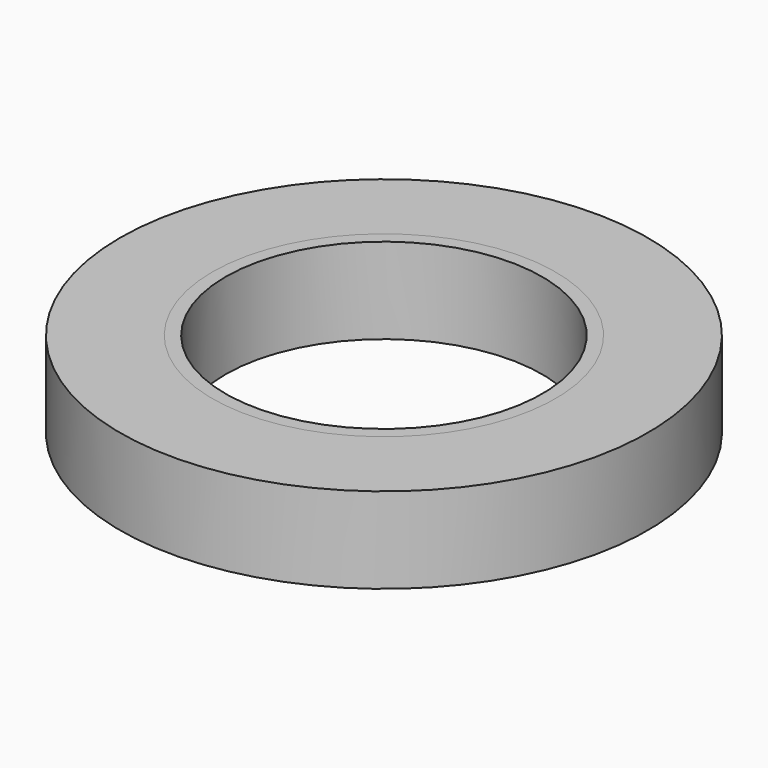
from build123d import *

# Parameters (mm, degrees)
F0_W = 3.175
F0_H = 20.6502
F2_W = 22.225
F2_H = 20.6502


with BuildPart() as f1:
    # F0 (on Front) → F1 (revolve)
    with BuildSketch(Plane.XZ):
        with Locations((-1.5875, 10.3251)):
            Rectangle(F0_W, F0_H)
    revolve(axis=Axis((38.1, 0, 11.878085), (0, 0, 1)))


with BuildPart() as f3:
    # F2 (on Front) → F3 (revolve)
    with BuildSketch(Plane.XZ):
        with Locations((-14.2875, 10.3251)):
            Rectangle(F2_W, F2_H)
    revolve(axis=Axis((38.1, 0, 9.348829), (0, 0, 1)))


solid = Compound([f1.part, f3.part])
